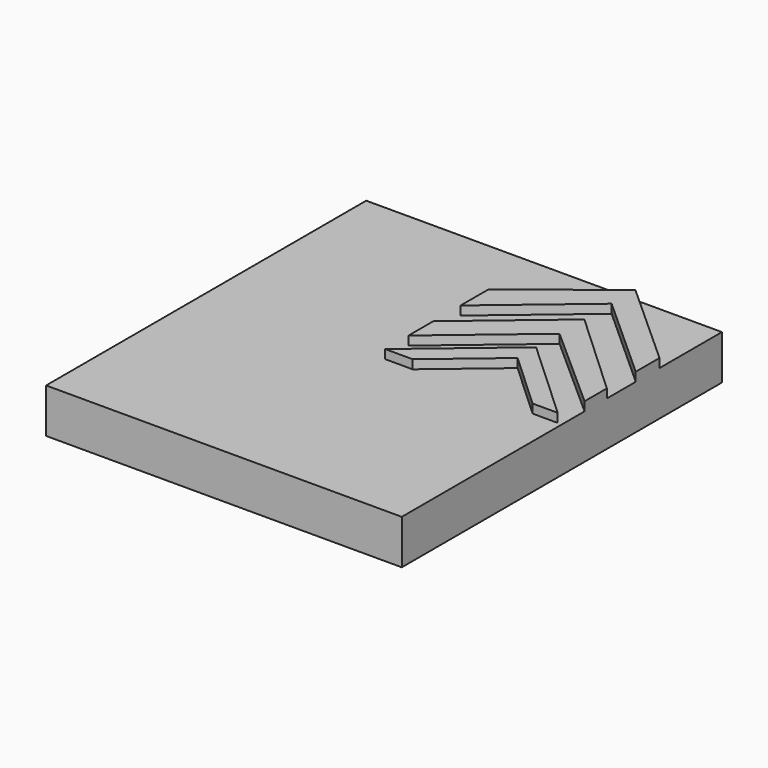
from build123d import *

# Parameters (mm, degrees)
F0_W     = 60
F0_H     = 67.5
F1_DEPTH = 15
F3_DEPTH = 3


with BuildPart() as f1:
    # F0 (on Top) → F1 (new body)
    with BuildSketch(Plane.XY):
        with Locations((-30, 33.75)):
            Rectangle(F0_W, F0_H)
        Polygon((60, 67.5), (0, 67.5), (0, 0), (5.978101, 0), (60, 0), align=None)
        with Locations((-30, -33.75)):
            Rectangle(F0_W, F0_H)
        Polygon((5.978101, 0), (0, 0), (0, -67.5), (60, -67.5), (60, 0), align=None)
    extrude(amount=F1_DEPTH)

    # F2 (on face) → F3 (join)
    with BuildSketch(Plane.XY.offset(15)):
        Polygon((9.656936, 0), (30.810218, 17.819343), (50.12409, 0), (58.597274, 0), (30.810218, 25.636863), (0.376784, 0), align=None)
        Polygon((0.376784, 20.34854), (0.376784, 9.886861), (30.810218, 35.523724), (60, 9.569461), (60, 18.968979), (30.810218, 45.985403), align=None)
        Polygon((0.376784, 43.571167), (0.376784, 31.844892), (30.810218, 57.481755), (60, 31.155111), (60, 41.173357), (30.810218, 67.5), align=None)
    extrude(amount=F3_DEPTH)


solid = f1.part
